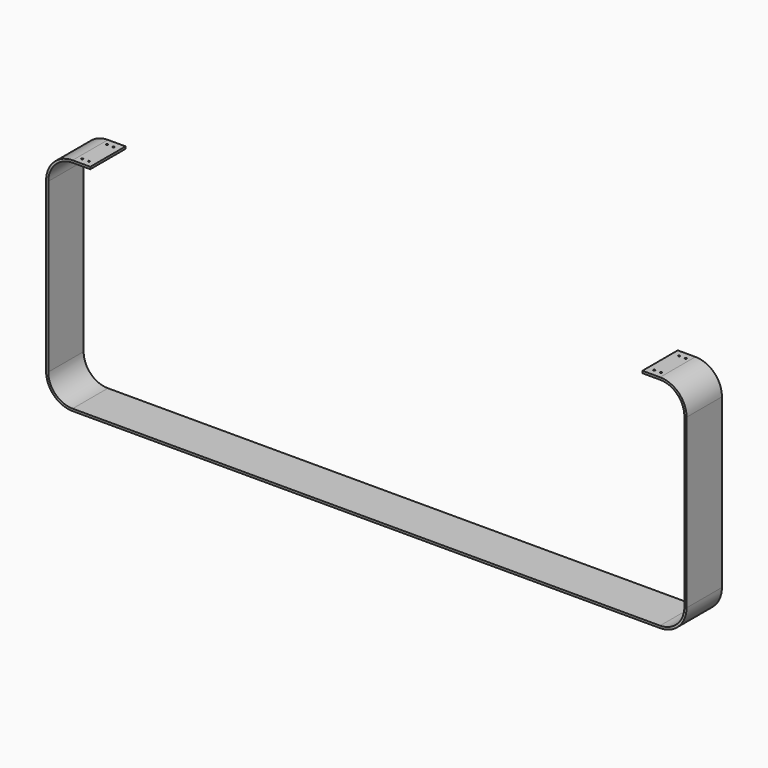
from build123d import *

# Parameters (mm, degrees)
F1_DEPTH = 100
F2_R     = 2
F3_DEPTH = 5


with BuildPart() as f1:
    # F0 (on Front) → F1 (new body)
    with BuildSketch(Plane.XZ):
        with BuildLine():
            Line((725, -440), (725, -60))
            ThreePointArc((725, -60), (707.426407, -17.573593), (665, 0))
            Line((665, 0), (625, 0))
            Line((625, 0), (625, -5))
            Line((625, -5), (665, -5))
            ThreePointArc((665, -5), (703.890873, -21.109127), (720, -60))
            Line((720, -60), (720, -440))
            ThreePointArc((720, -440), (703.890873, -478.890873), (665, -495))
            Line((665, -495), (-665, -495))
            ThreePointArc((-665, -495), (-703.890873, -478.890873), (-720, -440))
            Line((-720, -440), (-720, -60))
            ThreePointArc((-720, -60), (-703.890873, -21.109127), (-665, -5))
            Line((-665, -5), (-625, -5))
            Line((-625, -5), (-625, 0))
            Line((-625, 0), (-665, 0))
            ThreePointArc((-665, 0), (-707.426407, -17.573593), (-725, -60))
            Line((-725, -60), (-725, -440))
            ThreePointArc((-725, -440), (-707.426407, -482.426407), (-665, -500))
            Line((-665, -500), (665, -500))
            ThreePointArc((665, -500), (707.426407, -482.426407), (725, -440))
        make_face()
    extrude(amount=F1_DEPTH)

    # F2 (on face) → F3 (cut, through all)
    with BuildSketch(Plane.XY):
        with Locations((-655, -85)):
            Circle(F2_R)
        with Locations((-640, -85)):
            Circle(F2_R)
        with Locations((-655, -15)):
            Circle(F2_R)
        with Locations((-640, -15)):
            Circle(F2_R)
        with Locations((640, -15)):
            Circle(F2_R)
        with Locations((655, -15)):
            Circle(F2_R)
        with Locations((655, -85)):
            Circle(F2_R)
        with Locations((640, -85)):
            Circle(F2_R)
    extrude(amount=-F3_DEPTH, mode=Mode.SUBTRACT)


solid = f1.part
